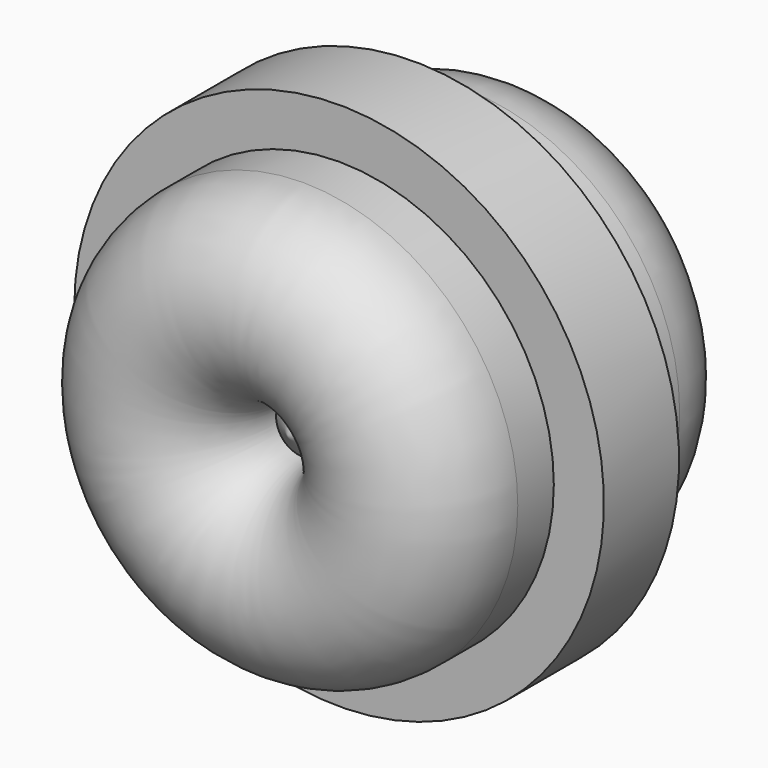
from build123d import *

# Parameters (mm, degrees)
F0_W = 12.0748467743
F0_H = 22.6198285818


with BuildPart() as f1:
    # F0 (on Top) → F1 (revolve)
    with BuildSketch(Plane.XY):
        with BuildLine():
            ThreePointArc((-51.7385564744, -24.759542197), (-29.1173150763, -47.3807835951), (-6.4960736781, -24.759542197))
            Line((-6.4960736781, -24.759542197), (-51.7385564744, -24.759542197))
        make_face()
        with BuildLine():
            Line((-51.7385564744, 23.9953603595), (-6.4960736781, 23.9953603595))
            ThreePointArc((-6.4960736781, 23.9953603595), (-29.1173150763, 46.6166017577), (-51.7385564744, 23.9953603595))
        make_face()
        Polygon((-6.4960736781, 23.9953603595), (-6.4960736781, -24.759542197), (0, -29.3446425349), (0, 28.4276213497), align=None)
        with Locations((-57.7759798616, -2.5982232764)):
            Rectangle(F0_W, F0_H)
        Polygon((-51.7385564744, -24.759542197), (-6.4960736781, -24.759542197), (-6.4960736781, 23.9953603595), (-51.7385564744, 23.9953603595), (-51.7385564744, 8.7116910145), (-51.7385564744, -13.9081375673), align=None)
    revolve(axis=Axis((0, -0.4585105926, 0), (0, 1, 0)))


solid = f1.part
